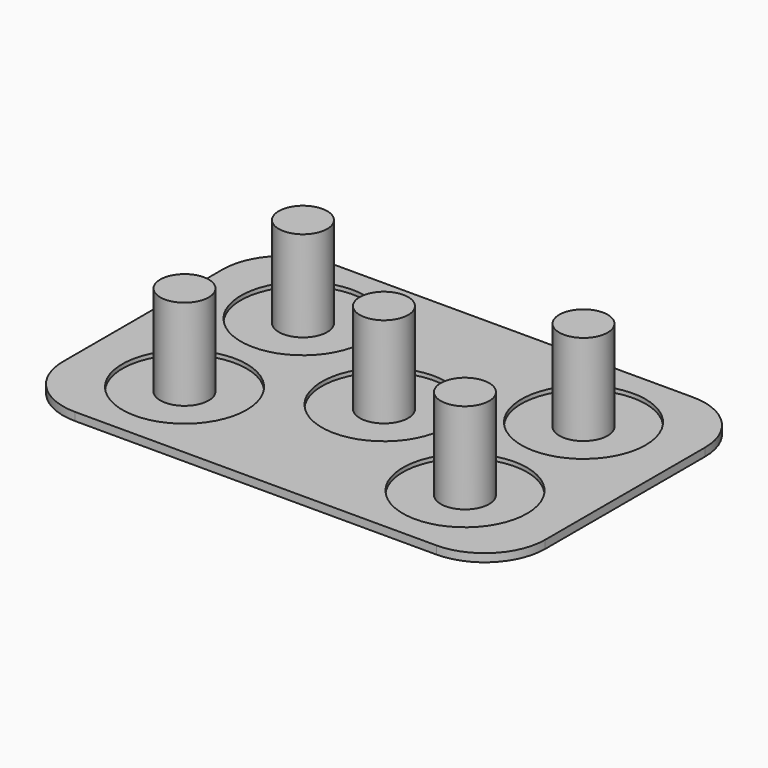
from build123d import *

# Parameters (mm, degrees)
F0_R     = 154
F1_DEPTH = 20
F0_R_2   = 60
F2_DEPTH = 235
F3_DEPTH = 10


with BuildPart() as f1:
    # F0 (on Top) → F1 (new body)
    with BuildSketch(Plane.XY):
        with BuildLine():
            Line((946.858641, 514.274256), (51.858641, 514.274256))
            ThreePointArc((51.858641, 514.274256), (-54.207376, 470.340273), (-98.141359, 364.274256))
            Line((-98.141359, 364.274256), (-98.141359, -130.725744))
            ThreePointArc((-98.141359, -130.725744), (-54.207376, -236.791761), (51.858641, -280.725744))
            Line((51.858641, -280.725744), (946.858641, -280.725744))
            ThreePointArc((946.858641, -280.725744), (1052.924658, -236.791761), (1096.858641, -130.725744))
            Line((1096.858641, -130.725744), (1096.858641, 364.274256))
            ThreePointArc((1096.858641, 364.274256), (1052.924658, 470.340273), (946.858641, 514.274256))
        make_face()
        with Locations((151.858641, -66.725744)):
            Circle(F0_R, mode=Mode.SUBTRACT)
        with Locations((846.858641, -66.725744)):
            Circle(F0_R, mode=Mode.SUBTRACT)
        with Locations((151.858641, 300.274256)):
            Circle(F0_R, mode=Mode.SUBTRACT)
        with Locations((499.358641, 116.774256)):
            Circle(F0_R, mode=Mode.SUBTRACT)
        with Locations((846.858641, 300.274256)):
            Circle(F0_R, mode=Mode.SUBTRACT)
    extrude(amount=F1_DEPTH)


with BuildPart() as f2:
    # F0 (on Top) → F2 (new body)
    with BuildSketch(Plane.XY):
        with Locations((846.858641, -66.725744)):
            Circle(F0_R_2)
        with Locations((846.858641, 300.274256)):
            Circle(F0_R_2)
        with Locations((499.358641, 116.774256)):
            Circle(F0_R_2)
        with Locations((151.858641, -66.725744)):
            Circle(F0_R_2)
        with Locations((151.858641, 300.274256)):
            Circle(F0_R_2)
    extrude(amount=F2_DEPTH)


with BuildPart() as f3:
    # F0 (on Top) → F3 (new body)
    with BuildSketch(Plane.XY):
        with Locations((151.858641, 300.274256)):
            Circle(F0_R)
        with Locations((151.858641, 300.274256)):
            Circle(F0_R_2, mode=Mode.SUBTRACT)
        with Locations((151.858641, -66.725744)):
            Circle(F0_R)
        with Locations((151.858641, -66.725744)):
            Circle(F0_R_2, mode=Mode.SUBTRACT)
        with Locations((499.358641, 116.774256)):
            Circle(F0_R)
        with Locations((499.358641, 116.774256)):
            Circle(F0_R_2, mode=Mode.SUBTRACT)
        with Locations((846.858641, 300.274256)):
            Circle(F0_R)
        with Locations((846.858641, 300.274256)):
            Circle(F0_R_2, mode=Mode.SUBTRACT)
        with Locations((846.858641, -66.725744)):
            Circle(F0_R)
        with Locations((846.858641, -66.725744)):
            Circle(F0_R_2, mode=Mode.SUBTRACT)
    extrude(amount=F3_DEPTH)


solid = Compound([f1.part, f2.part, f3.part])
